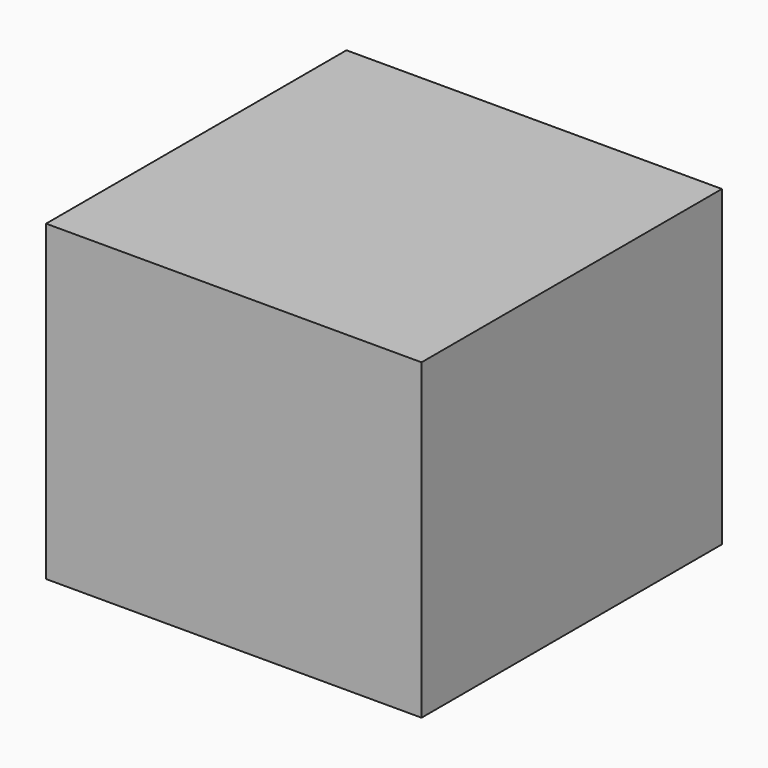
from build123d import *

# Parameters (mm, degrees)
F0_W     = 12
F0_H     = 12
F0_W_2   = 10
F0_H_2   = 10
F1_DEPTH = 10


with BuildPart() as f1:
    # F0 (on Top) → F1 (new body)
    with BuildSketch(Plane.XY):
        Rectangle(F0_W, F0_H)
        Rectangle(F0_W_2, F0_H_2, mode=Mode.SUBTRACT)
        Rectangle(F0_W_2, F0_H_2)
    extrude(amount=F1_DEPTH)


solid = f1.part
